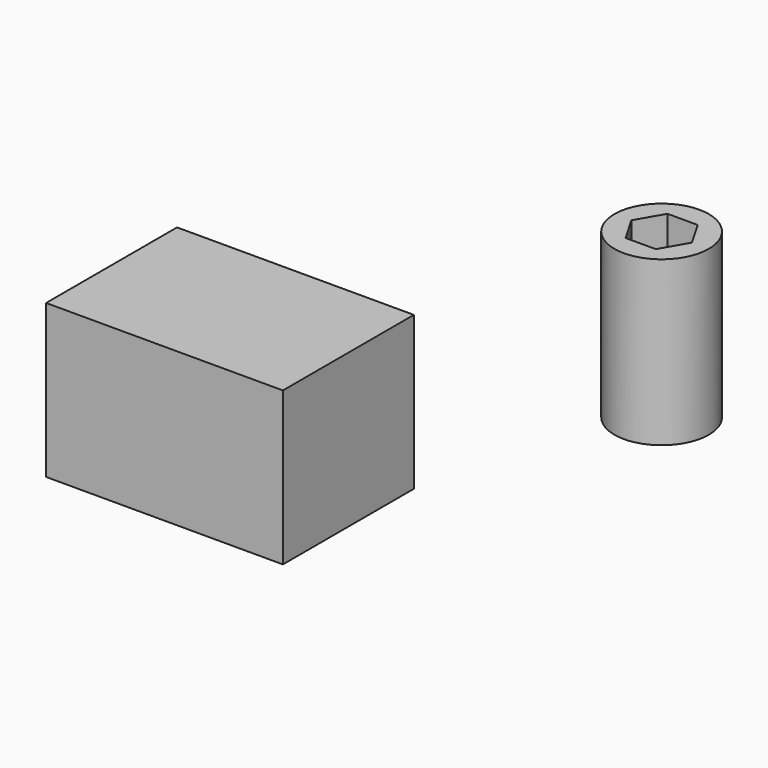
from build123d import *

# Parameters (mm, degrees)
F0_R      = 7.204837
F1_DEPTH  = 25
F3_DEPTH  = 6
F6_DEPTH  = 6
F7_R      = 3.5
F8_DEPTH  = 25
F9_W      = 36.172304
F9_H      = 23.396552
F10_DEPTH = 25


with BuildPart() as f1:
    # F0 (on Top) → F1 (new body)
    with BuildSketch(Plane.XY):
        Circle(F0_R)
    extrude(amount=-F1_DEPTH)

    # F2 (on face) → F3 (cut)
    with BuildSketch(Plane.XY):
        Polygon((-2.309401, -4), (2.309401, -4), (4.618802, 0), (2.309401, 4), (-2.309401, 4), (-4.618802, 0), align=None)
    extrude(amount=-F3_DEPTH, mode=Mode.SUBTRACT)

    # F5 (on face) → F6 (cut)
    with BuildSketch(Plane(origin=(0, 0, -25), x_dir=(1, 0, 0), z_dir=(0, 0, -1))):
        Polygon((2.886751, 5), (-2.886751, 5), (-5.773503, 0), (-2.886751, -5), (2.886751, -5), (5.773503, 0), align=None)
    extrude(amount=-F6_DEPTH, mode=Mode.SUBTRACT)

    # F7 (on Top) → F8 (cut)
    with BuildSketch(Plane.XY):
        Circle(F7_R)
    extrude(amount=-F8_DEPTH, mode=Mode.SUBTRACT)


with BuildPart() as f10:
    # F9 (on Front) → F10 (new body)
    with BuildSketch(Plane.XZ):
        with Locations((-55.934271, -35.22167)):
            Rectangle(F9_W, F9_H)
    extrude(amount=F10_DEPTH)


solid = Compound([f1.part, f10.part])
